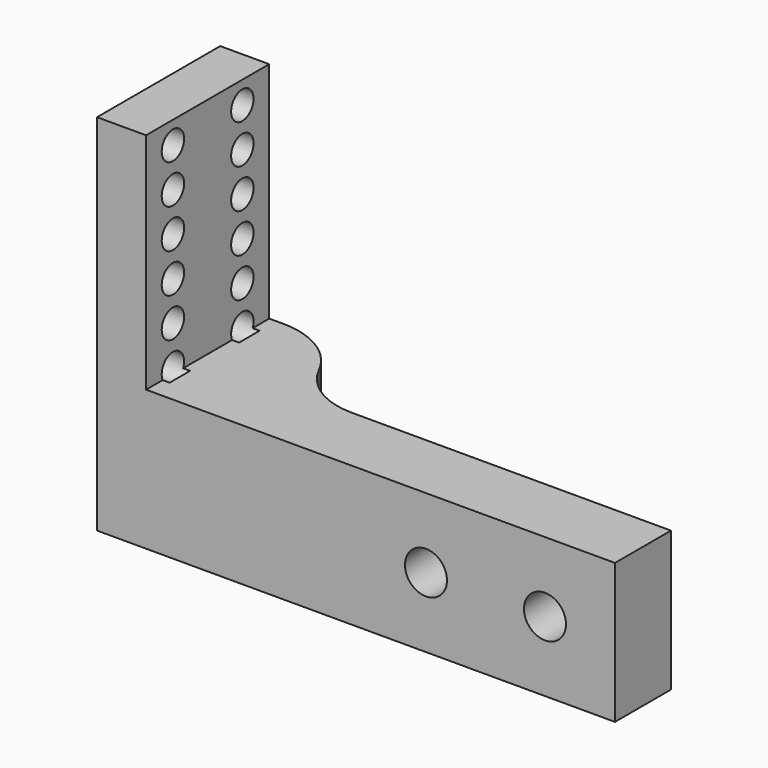
from build123d import *

# Parameters (mm, degrees)
F0_W     = 37
F0_H     = 10
F0_R     = 1.5
F1_DEPTH = 11
F2_W     = 3.5
F2_H     = 11
F3_DEPTH = 16
F4_W     = 28
F4_H     = 10
F5_DEPTH = 6
F6_DEPTH = 7.5
F7_DEPTH = 7.5
F8_R     = 1
F9_DEPTH = 4
F10_R    = 5.2
F11_R    = 5.7


with BuildPart() as f1:
    # F0 (on Front) → F1 (new body)
    with BuildSketch(Plane.XZ):
        with Locations((-18.5, 5)):
            Rectangle(F0_W, F0_H)
        with Locations((-13.5, 5)):
            Circle(F0_R, mode=Mode.SUBTRACT)
        with Locations((-5, 5)):
            Circle(F0_R, mode=Mode.SUBTRACT)
    extrude(amount=-F1_DEPTH)

    # F2 (on face) → F3 (join)
    with BuildSketch(Plane.XY.offset(10)):
        with Locations((-35.25, 5.5)):
            Rectangle(F2_W, F2_H)
    extrude(amount=F3_DEPTH)

    # F4 (on face) → F5 (cut)
    with BuildSketch(Plane(origin=(0, 11, 0), x_dir=(-1, 0, 0), z_dir=(0, 1, 0))):
        with Locations((14, 5)):
            Rectangle(F4_W, F4_H)
        Polygon((6.5877132403, 7.75), (8.1754264805, 5), (6.5877132403, 2.25), (3.4122867597, 2.25), (1.8245735195, 5), (3.4122867597, 7.75), align=None, mode=Mode.SUBTRACT)
        Polygon((16.6754264805, 5), (15.0877132403, 2.25), (11.9122867597, 2.25), (10.3245735195, 5), (11.9122867597, 7.75), (15.0877132403, 7.75), align=None, mode=Mode.SUBTRACT)
    extrude(amount=-F5_DEPTH, mode=Mode.SUBTRACT)

    # F6 (cut): a face of the model
    f6_faces = [f1.faces().sort_by_distance(p)[0] for p in [
        (-2.6911883006, 11, 3.6670069439),
    ]]
    extrude(f6_faces, amount=-F6_DEPTH, mode=Mode.SUBTRACT)

    # F7 (cut): a face of the model
    f7_faces = [f1.faces().sort_by_distance(p)[0] for p in [
        (-13.5, 11, 7.6659861123),
    ]]
    extrude(f7_faces, amount=-F7_DEPTH, mode=Mode.SUBTRACT)

    # F8 (on face) → F9 (cut)
    with BuildSketch(Plane(origin=(-37, 0, 0), x_dir=(0, -1, 0), z_dir=(-1, 0, 0))):
        with Locations((-8.6, 2)):
            Circle(F8_R)
        with Locations((-2.4, 2)):
            Circle(F8_R)
        with Locations((-2.4, 4.8)):
            Circle(F8_R)
        with Locations((-8.6, 4.8)):
            Circle(F8_R)
        with Locations((-2.4, 7.6)):
            Circle(F8_R)
        with Locations((-8.6, 7.6)):
            Circle(F8_R)
        with Locations((-2.4, 10.4)):
            Circle(F8_R)
        with Locations((-8.6, 10.4)):
            Circle(F8_R)
        with Locations((-2.4, 13.2)):
            Circle(F8_R)
        with Locations((-8.6, 13.2)):
            Circle(F8_R)
        with Locations((-2.4, 16)):
            Circle(F8_R)
        with Locations((-8.6, 16)):
            Circle(F8_R)
        with Locations((-2.4, 18.8)):
            Circle(F8_R)
        with Locations((-8.6, 18.8)):
            Circle(F8_R)
        with Locations((-2.4, 21.6)):
            Circle(F8_R)
        with Locations((-8.6, 21.6)):
            Circle(F8_R)
        with Locations((-2.4, 24.4)):
            Circle(F8_R)
        with Locations((-8.6, 24.4)):
            Circle(F8_R)
    extrude(amount=-F9_DEPTH, mode=Mode.SUBTRACT)

    # F10
    f10_edges = [f1.edges().sort_by_distance(p)[0] for p in [
        (-28, 5, 5),
    ]]
    fillet(f10_edges, radius=F10_R)

    # F11
    f11_edges = [f1.edges().sort_by_distance(p)[0] for p in [
        (-28, 11, 5),
    ]]
    fillet(f11_edges, radius=F11_R)


solid = f1.part
